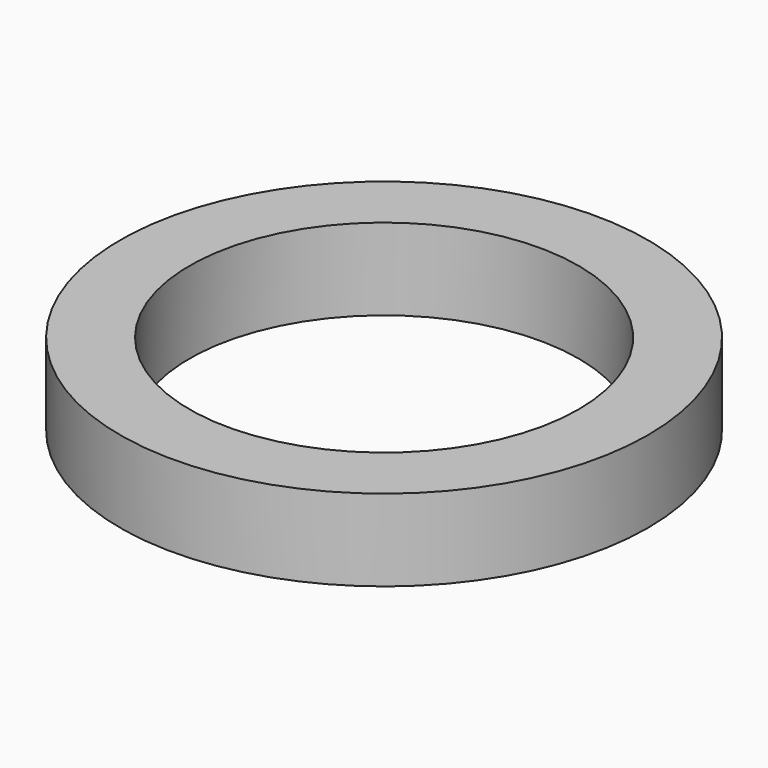
from build123d import *

# Parameters (mm, degrees)
F0_R     = 25.85
F0_R_2   = 19.05
F1_DEPTH = 8


with BuildPart() as f1:
    # F0 (on Top) → F1 (new body)
    with BuildSketch(Plane.XY):
        Circle(F0_R)
        Circle(F0_R_2, mode=Mode.SUBTRACT)
        Circle(F0_R)
        Circle(F0_R_2, mode=Mode.SUBTRACT)
    extrude(amount=F1_DEPTH)


solid = f1.part
